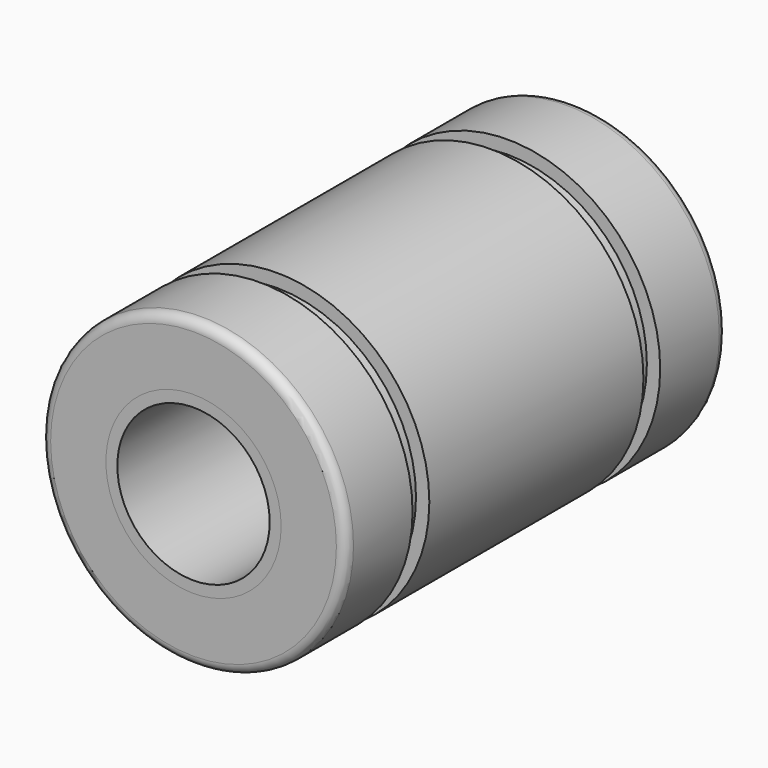
from build123d import *

# Parameters (mm, degrees)
F0_R          = 8
F0_R_2        = 4.6
F1_DEPTH      = 12.5
F0_R_3        = 4
F2_DEPTH      = 12.5
F2_DEPTH_BACK = 12.5
F3_W          = 1.1
F3_H          = 0.7
F5_R          = 0.5


with BuildPart() as f1:
    # F0 (on Front) → F1 (new body, symmetric)
    with BuildSketch(Plane.XZ):
        Circle(F0_R)
        Circle(F0_R_2, mode=Mode.SUBTRACT)
    extrude(amount=F1_DEPTH, both=True)

    # F3 (on Right) → F4 (revolve, cut)
    with BuildSketch(Plane.YZ):
        with Locations((-7.575, 7.65)):
            Rectangle(F3_W, F3_H)
        with Locations((7.575, 7.65)):
            Rectangle(F3_W, F3_H)
    revolve(axis=Axis((0, -12.5, 0), (0, -1, 0)), mode=Mode.SUBTRACT)

    # F5
    f5_edges = [f1.edges().sort_by_distance(p)[0] for p in [
        (-8, -12.5, 0),
        (-8, 12.5, 0),
    ]]
    fillet(f5_edges, radius=F5_R)


with BuildPart() as f2:
    # F0 (on Front) → F2 (new body, two sides)
    with BuildSketch(Plane.XZ) as f2_sk:
        Circle(F0_R_2)
        Circle(F0_R_3, mode=Mode.SUBTRACT)
    extrude(amount=F2_DEPTH)
    extrude(f2_sk.sketch, amount=-F2_DEPTH_BACK)


solid = Compound([f1.part, f2.part])
